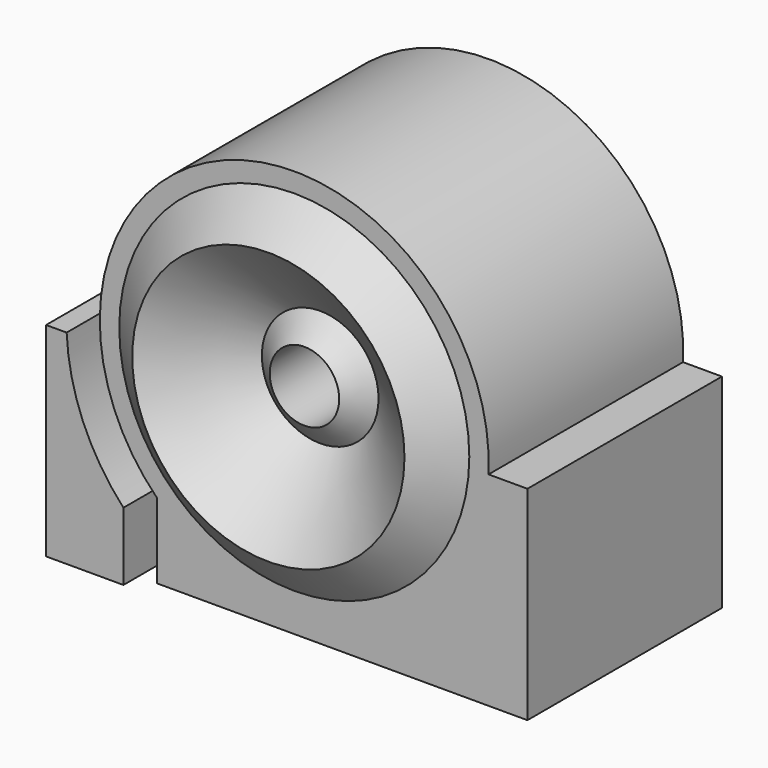
from build123d import *

# Parameters (mm, degrees)
SKETCH013_R     = 1.5
POCKET001_DEPTH = 23.8
PAD008_DEPTH    = 10.5
PAD009_DEPTH    = 12.1
SKETCH047_W     = 0.8
SKETCH047_H     = 0.8
POCKET005_DEPTH = 10.5


with BuildPart() as part:
    # Sketch007 → Revolution (revolve)
    with BuildSketch(Plane.XY):
        Polygon((0, 10.9), (0.84, 10.9), (2.52, 12.3), (5.88, 9.5), (7.56, 10.9), (8.4, 10.9), (8.4, 0.4), (7.56, 0.4), (5.88, -1), (2.52, 1.8), (0.84, 0.4), (0, 0.4), align=None)
    revolve(axis=Axis((0, 0, 0), (0, 1, 0)))

    # Sketch013 → Pocket001 (cut)
    with BuildSketch(Plane.XZ.offset(1)):
        Circle(SKETCH013_R)
    extrude(amount=-POCKET001_DEPTH, mode=Mode.SUBTRACT)

    # Sketch023 → Pad008 (join)
    with BuildSketch(Plane.XZ.offset(-0.4)):
        with BuildLine():
            Line((-5.939697, -9.2), (10.070471, -9.2))
            Line((10.070471, -9.2), (10.070471, -0.4))
            Line((10.070471, -0.4), (8.390471, -0.4))
            ThreePointArc((-5.939697, -5.939697), (3.028801, -7.834945), (8.390471, -0.4))
            Line((-5.939697, -5.939697), (-5.939697, -9.2))
        make_face()
    extrude(amount=-PAD008_DEPTH)

    # Sketch024 → Pad009 (join)
    with BuildSketch(Plane.XZ.offset(0.4)):
        with BuildLine():
            Line((-10.08, -0.4), (-10.08, -9.2))
            Line((-10.08, -9.2), (-5.939697, -9.2))
            Line((-5.939697, -8.4), (-5.939697, -9.2))
            Line((-6.739697, -8.4), (-5.939697, -8.4))
            Line((-6.739697, -8.4), (-6.739697, -6.262307))
            ThreePointArc((-9.1913, -0.4), (-8.487687, -3.549531), (-6.739697, -6.262307))
            Line((-9.1913, -0.4), (-10.08, -0.4))
        make_face()
    extrude(amount=-PAD009_DEPTH)

    # Sketch047 → Pocket005 (cut)
    with BuildSketch(Plane.XZ.offset(0.4)):
        with Locations((-6.339697, -8.8)):
            Rectangle(SKETCH047_W, SKETCH047_H)
    extrude(amount=-POCKET005_DEPTH, mode=Mode.SUBTRACT)


solid = part.part
